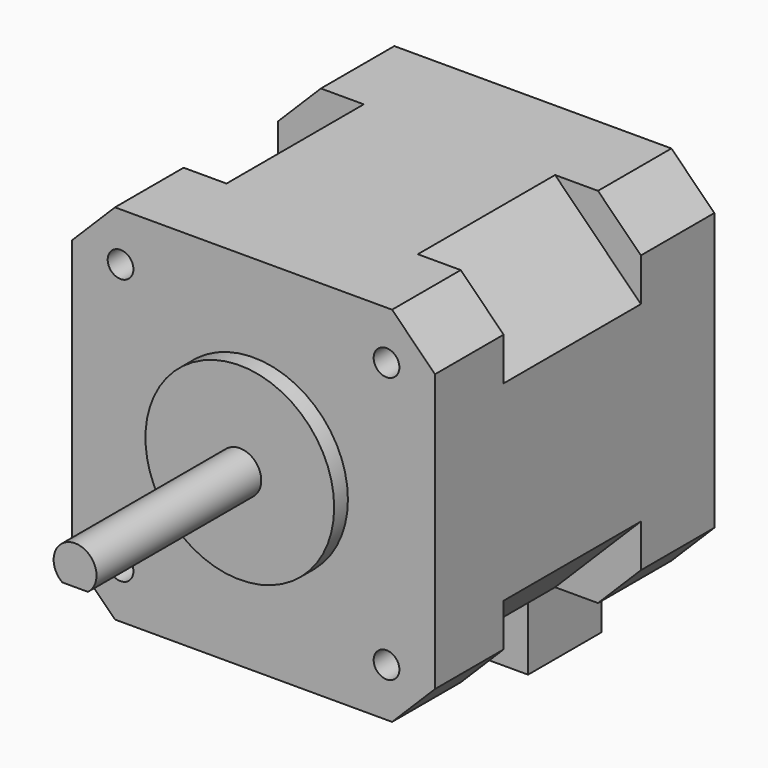
from build123d import *

# Parameters (mm, degrees)
F1_DEPTH = 10
F2_DEPTH = 30.7
F3_DEPTH = 20
F4_R     = 11
F4_R_2   = 2.5
F5_DEPTH = 2
F6_DEPTH = 26
F8_DEPTH = 19.2
F4_R_3   = 1.5
F9_DEPTH = 4.5


with BuildPart() as f1:
    # F0 (on Front) → F1 (new body)
    with BuildSketch(Plane.XZ):
        Polygon((-21.15, 11.15), (-11.15, 21.15), (-16.15, 21.15), (-21.15, 16.15), align=None)
        Polygon((-11.15, -21.15), (-21.15, -11.15), (-21.15, -16.15), (-16.15, -21.15), align=None)
        Polygon((21.15, -16.15), (21.15, -11.15), (11.15, -21.15), (16.15, -21.15), align=None)
        Polygon((16.15, 21.15), (11.15, 21.15), (21.15, 11.15), (21.15, 16.15), align=None)
        Polygon((11.15, 21.15), (-11.15, 21.15), (-21.15, 11.15), (-21.15, -11.15), (-11.15, -21.15), (-8, -21.15), (8, -21.15), (11.15, -21.15), (21.15, -11.15), (21.15, 11.15), align=None)
    extrude(amount=F1_DEPTH)

    # F0 (on Front) → F2 (join)
    with BuildSketch(Plane.XZ):
        Polygon((11.15, 21.15), (-11.15, 21.15), (-21.15, 11.15), (-21.15, -11.15), (-11.15, -21.15), (-8, -21.15), (8, -21.15), (11.15, -21.15), (21.15, -11.15), (21.15, 11.15), align=None)
        Polygon((-21.15, 11.15), (-11.15, 21.15), (-16.15, 21.15), (-21.15, 16.15), align=None)
        Polygon((16.15, 21.15), (11.15, 21.15), (21.15, 11.15), (21.15, 16.15), align=None)
        Polygon((-11.15, -21.15), (-21.15, -11.15), (-21.15, -16.15), (-16.15, -21.15), align=None)
        Polygon((21.15, -16.15), (21.15, -11.15), (11.15, -21.15), (16.15, -21.15), align=None)
        Polygon((8, -21.15), (-8, -21.15), (-8, -31.15), (0, -31.15), (8, -31.15), align=None)
    extrude(amount=-F2_DEPTH)

    # F0 (on Front) → F3 (cut)
    with BuildSketch(Plane.XZ):
        Polygon((16.15, 21.15), (11.15, 21.15), (21.15, 11.15), (21.15, 16.15), align=None)
        Polygon((-21.15, 11.15), (-11.15, 21.15), (-16.15, 21.15), (-21.15, 16.15), align=None)
        Polygon((-11.15, -21.15), (-21.15, -11.15), (-21.15, -16.15), (-16.15, -21.15), align=None)
        Polygon((21.15, -16.15), (21.15, -11.15), (11.15, -21.15), (16.15, -21.15), align=None)
        Polygon((8, -21.15), (-8, -21.15), (-8, -31.15), (0, -31.15), (8, -31.15), align=None)
    extrude(amount=-F3_DEPTH, mode=Mode.SUBTRACT)

    # F4 (on face) → F5 (join)
    with BuildSketch(Plane.XZ.offset(10)):
        Circle(F4_R)
        Circle(F4_R_2, mode=Mode.SUBTRACT)
    extrude(amount=F5_DEPTH)

    # F4 (on face) → F6 (join)
    with BuildSketch(Plane.XZ.offset(10)):
        Circle(F4_R_2)
    extrude(amount=F6_DEPTH)

    # F7 (on face) → F8 (cut)
    with BuildSketch(Plane.XZ.offset(36)):
        with BuildLine():
            Line((1.5, -2), (-1.5, -2))
            ThreePointArc((-1.5, -2), (0, -2.5), (1.5, -2))
        make_face()
    extrude(amount=-F8_DEPTH, mode=Mode.SUBTRACT)

    # F4 (on face) → F9 (cut)
    with BuildSketch(Plane.XZ.offset(10)):
        with Locations((-15.5, 15.5)):
            Circle(F4_R_3)
        with Locations((15.5, 15.5)):
            Circle(F4_R_3)
        with Locations((15.5, -15.5)):
            Circle(F4_R_3)
        with Locations((-15.5, -15.5)):
            Circle(F4_R_3)
    extrude(amount=-F9_DEPTH, mode=Mode.SUBTRACT)


solid = f1.part
